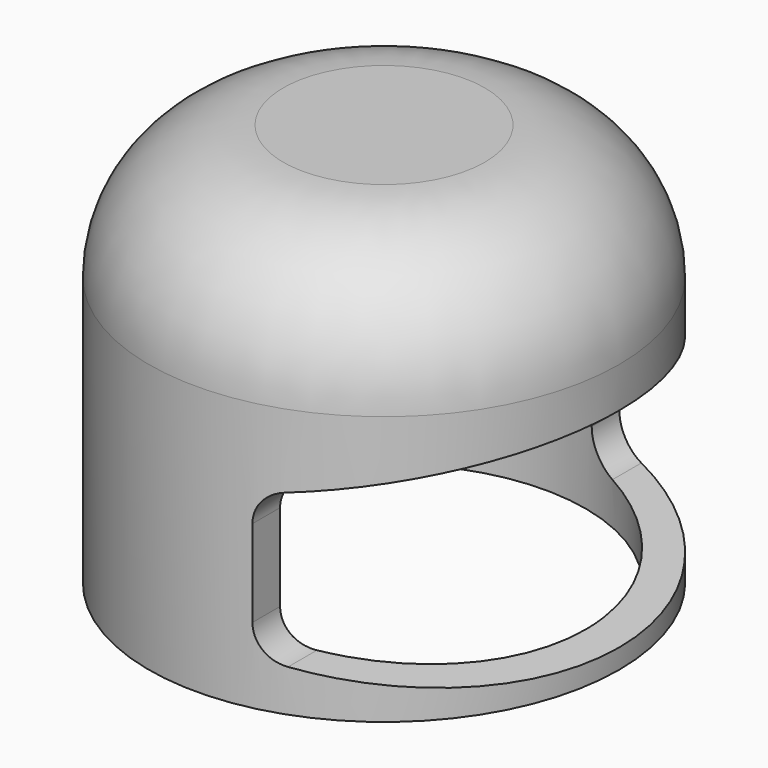
from build123d import *

# Parameters (mm, degrees)
F0_R     = 7
F1_DEPTH = 12
F2_R     = 4
F3_T     = -1
F5_DEPTH = 12.7


with BuildPart() as f1:
    # F0 (on Top) → F1 (new body)
    with BuildSketch(Plane.XY):
        Circle(F0_R)
    extrude(amount=F1_DEPTH)

    # F2
    f2_edges = [f1.edges().sort_by_distance(p)[0] for p in [
        (-7, 0, 12),
    ]]
    fillet(f2_edges, radius=F2_R)

    # F3
    f3_openings = [f1.faces().sort_by_distance(p)[0] for p in [
        (0, 0, 0),
    ]]
    offset(amount=F3_T, openings=f3_openings)

    # F4 (on Front) → F5 (cut, symmetric)
    with BuildSketch(Plane.XZ):
        with BuildLine():
            Line((8.120851, 6.698599), (8.229394, 7.056202))
            Line((8.229394, 7.056202), (2.338248, 5.809171))
            ThreePointArc((2.338248, 5.809171), (1.768457, 5.460496), (1.545338, 4.830849))
            Line((1.545338, 4.830849), (1.545338, 2.243015))
            ThreePointArc((1.545338, 2.243015), (1.789101, 1.588718), (2.401549, 1.253407))
            Line((2.401549, 1.253407), (7.227779, 0.55216))
            Line((7.227779, 0.55216), (8.120851, 6.698599))
        make_face()
    extrude(amount=F5_DEPTH, both=True, mode=Mode.SUBTRACT)


solid = f1.part
